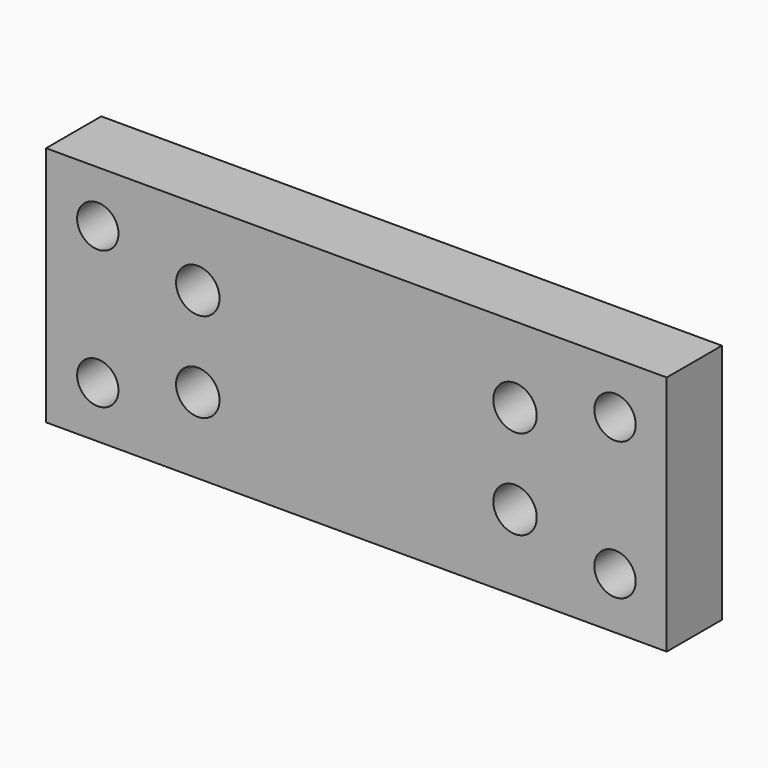
from build123d import *

# Parameters (mm, degrees)
F0_W     = 90
F0_H     = 35
F1_DEPTH = 10
F3_R     = 3
F4_DEPTH = 10.001
F5_D     = 6.3
F5_DEPTH = 20
F5_TIP   = 1.8927109499


with BuildPart() as f1:
    # F0 (on Front) → F1 (new body)
    with BuildSketch(Plane.XZ):
        Rectangle(F0_W, F0_H)
    extrude(amount=F1_DEPTH)

    # F3 (on face) → F4 (cut, through all)
    with BuildSketch(Plane.XZ.offset(10)):
        with Locations((-37.5, 10)):
            Circle(F3_R)
        with Locations((-37.5, -10)):
            Circle(F3_R)
        with Locations((37.5, -10)):
            Circle(F3_R)
        with Locations((37.5, 10)):
            Circle(F3_R)
    extrude(amount=-F4_DEPTH, mode=Mode.SUBTRACT)

    # F5
    with Locations(Plane.XZ.offset(10)):
        with Locations((-23, 6.5), (-23, -6.5), (23, -6.5), (23, 6.5)):
            Hole(F5_D / 2, depth=F5_DEPTH)
            with Locations((0, 0, -(F5_DEPTH + F5_TIP / 2))):  # 118° drill point
                Cone(0, F5_D / 2, F5_TIP, mode=Mode.SUBTRACT)


solid = f1.part
